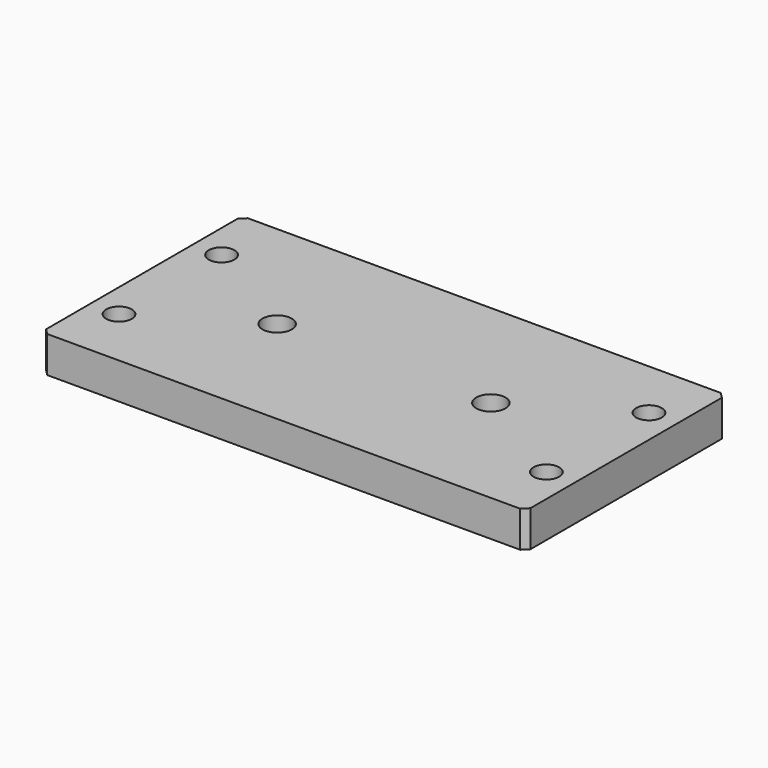
from build123d import *

# Parameters (mm, degrees)
F0_W     = 170
F0_H     = 88
F0_R     = 4.5
F1_DEPTH = 6.35
F2_SIZE  = 2
F4_D     = 10.3


with BuildPart() as f1:
    # F0 (on Top) → F1 (new body, symmetric)
    with BuildSketch(Plane.XY):
        Rectangle(F0_W, F0_H)
        with Locations((-75, -22.5)):
            Circle(F0_R, mode=Mode.SUBTRACT)
        with Locations((75, -22.5)):
            Circle(F0_R, mode=Mode.SUBTRACT)
        with Locations((-75, 22.5)):
            Circle(F0_R, mode=Mode.SUBTRACT)
        with Locations((75, 22.5)):
            Circle(F0_R, mode=Mode.SUBTRACT)
    extrude(amount=F1_DEPTH, both=True)

    # F2
    f2_edges = [f1.edges().sort_by_distance(p)[0] for p in [
        (85, 44, 0),
        (85, -44, 0),
        (-85, 44, 0),
        (-85, -44, 0),
    ]]
    chamfer(f2_edges, length=F2_SIZE)

    # F4 (through all)
    with Locations(Plane.XY.offset(6.35)):
        with Locations((-37.5, 0), (37.5, 0)):
            Hole(F4_D / 2)


solid = f1.part
